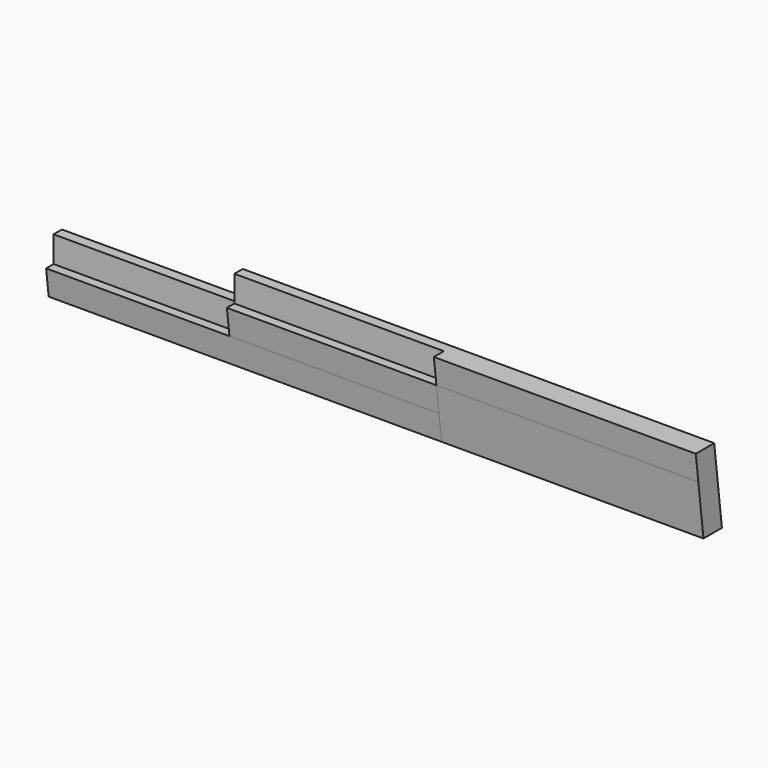
from build123d import *

# Parameters (mm, degrees)
F1_DEPTH  = 70
F3_DEPTH  = 80
F5_DEPTH  = 100
F8_DEPTH  = 70
F10_DEPTH = 80


with BuildPart() as f1:
    # F0 (on Right) → F1 (new body)
    with BuildSketch(Plane.YZ):
        Polygon((-8.8, 0), (0, 0), (-1.227845609, 10), (-10.027845609, 10), align=None)
    extrude(amount=F1_DEPTH)

    # F2 (on face) → F3 (join)
    with BuildSketch(Plane.YZ.offset(70)):
        Polygon((0, 0), (-1.227845609, 10), (-10.027845609, 10), (-8.8, 0), align=None)
        Polygon((-10.027845609, 10), (-1.227845609, 10), (-2.4556912181, 20), (-11.2556912181, 20), align=None)
    extrude(amount=F3_DEPTH)

    # F4 (on face) → F5 (join)
    with BuildSketch(Plane.YZ.offset(150)):
        Polygon((-8.8, 0), (0, 0), (-2.4556912181, 20), (-11.2556912181, 20), align=None)
        Polygon((-11.2556912181, 20), (-2.4556912181, 20), (-3.6835368271, 30), (-12.4835368271, 30), align=None)
    extrude(amount=F5_DEPTH)

    # F7 (on face) → F8 (join)
    with BuildSketch(Plane(origin=(0, 0, 0), x_dir=(0, -1, 0), z_dir=(-1, 0, 0))):
        Polygon((2.4556912181, 20), (1.227845609, 10), (6.4556912181, 10), (6.4556912181, 20), align=None)
    extrude(amount=-F8_DEPTH)

    # F9 (on face) → F10 (join)
    with BuildSketch(Plane(origin=(150, 0, 0), x_dir=(0, -1, 0), z_dir=(-1, 0, 0))):
        Polygon((2.4556912181, 20), (7.6835368271, 20), (7.6835368271, 30), (3.6835368271, 30), align=None)
    extrude(amount=F10_DEPTH)


solid = f1.part
